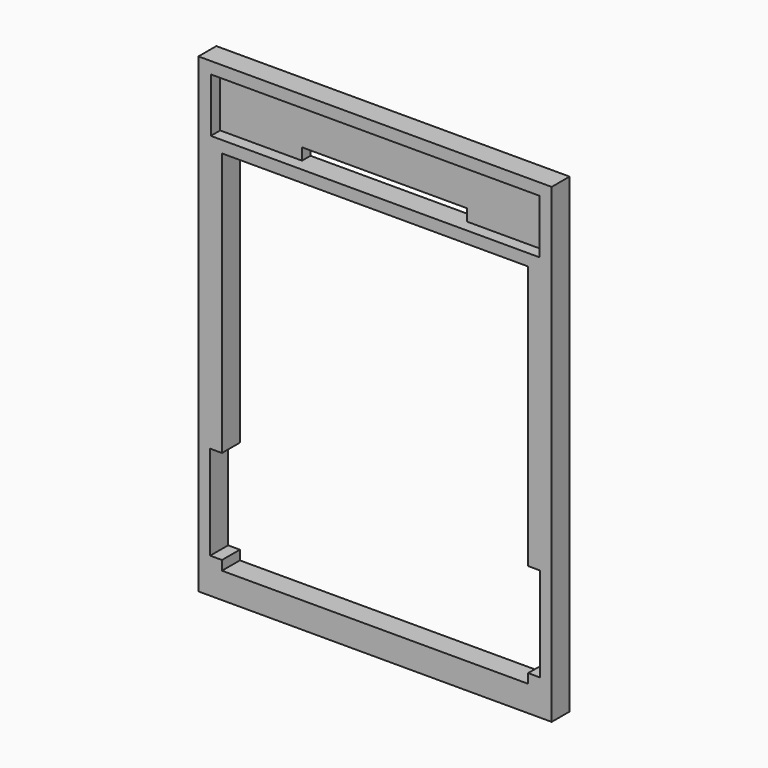
from build123d import *

# Parameters (mm, degrees)
F0_W      = 300
F0_H      = 400
F1_DEPTH  = 19
F2_W      = 279
F2_H      = 46
F3_DEPTH  = 10
F4_W      = 140
F4_H      = 10
F5_DEPTH  = 10
F6_W      = 260
F6_H      = 312
F7_DEPTH  = 19
F8_W      = 10
F8_H      = 80
F9_DEPTH  = 19
F10_W     = 10
F10_H     = 80
F11_DEPTH = 19


with BuildPart() as f1:
    # F0 (on Front) → F1 (new body)
    with BuildSketch(Plane.XZ):
        with Locations((5.324256, -69.15618)):
            Rectangle(F0_W, F0_H)
    extrude(amount=F1_DEPTH)

    # F2 (on face) → F3 (cut)
    with BuildSketch(Plane.XZ.offset(19)):
        with Locations((5.324256, 97.84382)):
            Rectangle(F2_W, F2_H)
    extrude(amount=-F3_DEPTH, mode=Mode.SUBTRACT)

    # F4 (on face) → F5 (cut)
    with BuildSketch(Plane.XZ.offset(9)):
        with Locations((5.324256, 79.84382)):
            Rectangle(F4_W, F4_H)
    extrude(amount=-F5_DEPTH, mode=Mode.SUBTRACT)

    # F6 (on face) → F7 (cut)
    with BuildSketch(Plane.XZ.offset(19)):
        with Locations((5.324256, -91.15618)):
            Rectangle(F6_W, F6_H)
    extrude(amount=-F7_DEPTH, mode=Mode.SUBTRACT)

    # F8 (on face) → F9 (cut)
    with BuildSketch(Plane(origin=(0, 0, 0), x_dir=(-1, 0, 0), z_dir=(0, 1, 0))):
        with Locations((-140.324256, -199.15618)):
            Rectangle(F8_W, F8_H)
    extrude(amount=-F9_DEPTH, mode=Mode.SUBTRACT)

    # F10 (on face) → F11 (cut)
    with BuildSketch(Plane(origin=(0, 0, 0), x_dir=(-1, 0, 0), z_dir=(0, 1, 0))):
        with Locations((129.675744, -199.15618)):
            Rectangle(F10_W, F10_H)
    extrude(amount=-F11_DEPTH, mode=Mode.SUBTRACT)


solid = f1.part
